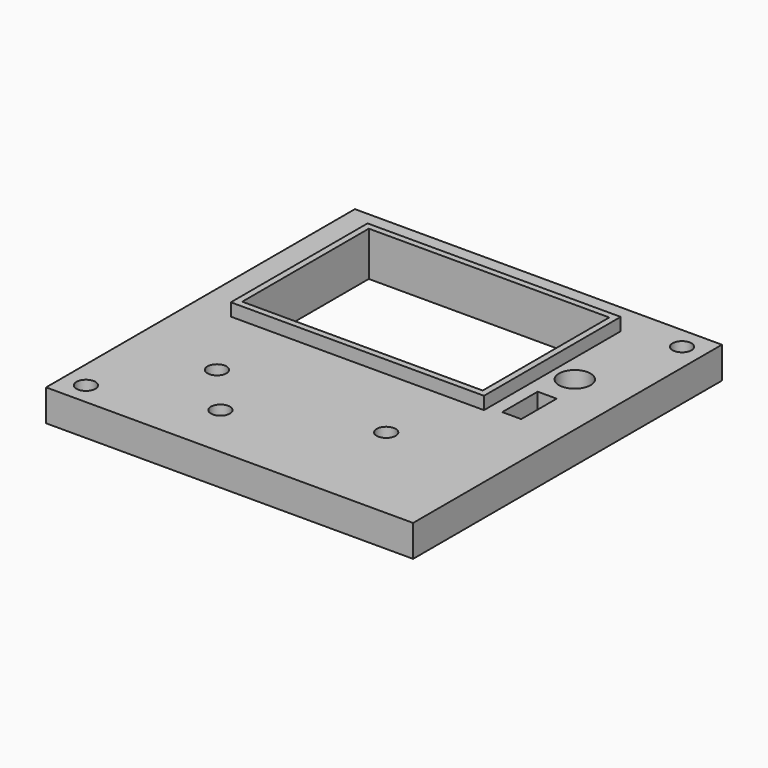
from build123d import *

# Parameters (mm, degrees)
F0_W     = 58
F0_H     = 61
F0_R     = 1.5
F0_W_2   = 38
F0_H_2   = 25
F0_W_3   = 3
F0_H_3   = 7
F0_R_2   = 2.5
F1_DEPTH = 5
F2_W     = 40
F2_H     = 27
F2_W_2   = 38
F2_H_2   = 25
F3_DEPTH = 2


with BuildPart() as f1:
    # F0 (on Top) → F1 (new body)
    with BuildSketch(Plane.XY):
        with Locations((29, -30.5)):
            Rectangle(F0_W, F0_H)
        with Locations((3.5, -57.5)):
            Circle(F0_R, mode=Mode.SUBTRACT)
        with Locations((20.599063, -52.302592)):
            Circle(F0_R, mode=Mode.SUBTRACT)
        with Locations((13.542605, -44.172324)):
            Circle(F0_R, mode=Mode.SUBTRACT)
        with Locations((40.279038, -44.172324)):
            Circle(F0_R, mode=Mode.SUBTRACT)
        with Locations((26, -18.5)):
            Rectangle(F0_W_2, F0_H_2, mode=Mode.SUBTRACT)
        with Locations((49.58617, -27.5)):
            Rectangle(F0_W_3, F0_H_3, mode=Mode.SUBTRACT)
        with Locations((49.604766, -18.574871)):
            Circle(F0_R_2, mode=Mode.SUBTRACT)
        with Locations((54.5, -3.5)):
            Circle(F0_R, mode=Mode.SUBTRACT)
    extrude(amount=F1_DEPTH)

    # F2 (on face) → F3 (join)
    with BuildSketch(Plane.XY.offset(5)):
        with Locations((26, -18.5)):
            Rectangle(F2_W, F2_H)
        with Locations((26, -18.5)):
            Rectangle(F2_W_2, F2_H_2, mode=Mode.SUBTRACT)
    extrude(amount=F3_DEPTH)


solid = f1.part
